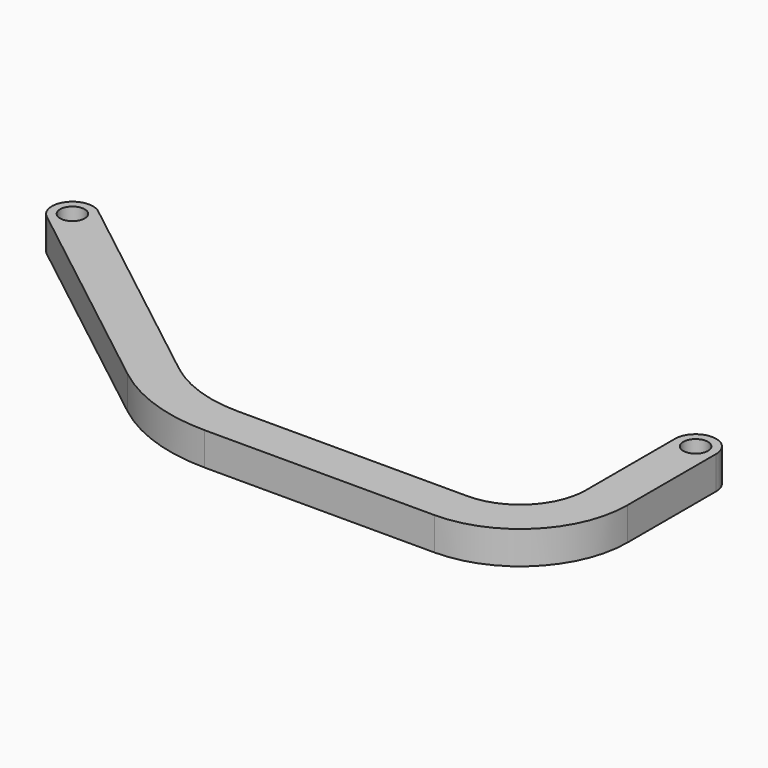
from build123d import *

# Parameters (mm, degrees)
F2_DEPTH = 12.7
F3_D     = 9.525


with BuildPart() as f2:
    # F1 (on Top) → F2 (new body)
    with BuildSketch(Plane.XY):
        with BuildLine():
            ThreePointArc((-122.0150568144, -68.2625), (-138.5539190608, -65.4948436404), (-153.2906597609, -57.4934462832))
            Line((-153.2906597609, -57.4934462832), (-236.4102435549, 7.4466898162))
            ThreePointArc((-236.4102435549, 7.4466898162), (-234.1628787728, 4.6714254371), (-233.3595565153, 1.1918544595))
            ThreePointArc((-233.3595565153, 1.1918544595), (-237.8174855377, -5.942323283), (-246.1838694757, -5.0629808973))
            Line((-246.1838694757, -5.0629808973), (-163.0642856817, -70.0031169967))
            ThreePointArc((-163.0642856817, -70.0031169967), (-143.7223135128, -80.5049510281), (-122.0150568144, -84.1375))
            Line((-122.0150568144, -84.1375), (-33.3375, -84.1375))
            ThreePointArc((-33.3375, -84.1375), (-4.1516676065, -72.0483323935), (7.9375, -42.8625))
            Line((7.9375, -42.8625), (7.9375, 0))
            ThreePointArc((7.9375, 0), (0, -7.9375), (-7.9375, 0))
            Line((-7.9375, 0), (-7.9375, -42.8625))
            ThreePointArc((-7.9375, -42.8625), (-15.3769877579, -60.8230122421), (-33.3375, -68.2625))
            Line((-33.3375, -68.2625), (-122.0150568144, -68.2625))
        make_face()
        with BuildLine():
            ThreePointArc((-233.3595565153, 1.1918544595), (-234.1628787728, 4.6714254371), (-236.4102435549, 7.4466898162))
            ThreePointArc((-236.4102435549, 7.4466898162), (-247.5518918721, 6.0786674199), (-246.1838694757, -5.0629808973))
            ThreePointArc((-246.1838694757, -5.0629808973), (-237.8174855377, -5.942323283), (-233.3595565153, 1.1918544595))
        make_face()
        with BuildLine():
            ThreePointArc((7.9375, 0), (0, 7.9375), (-7.9375, 0))
            ThreePointArc((-7.9375, 0), (0, -7.9375), (7.9375, 0))
        make_face()
    extrude(amount=F2_DEPTH)

    # F3 (through all)
    with Locations(Plane(origin=(0, 0, 0), x_dir=(1, 0, 0), z_dir=(0, 0, -1))):
        with Locations((-241.2970565153, -1.1918544595), (0, 0)):
            Hole(F3_D / 2)


solid = f2.part
